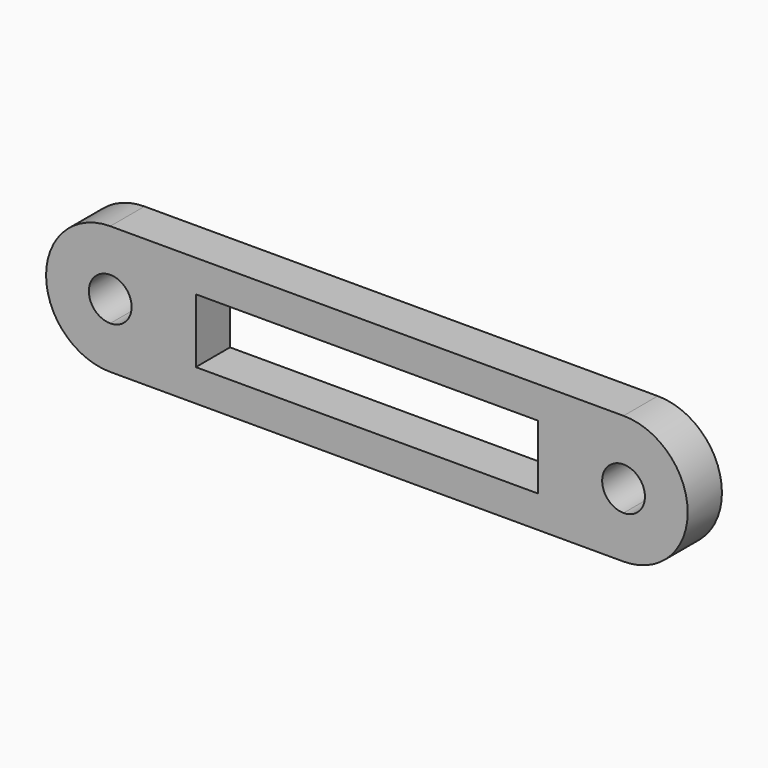
from build123d import *

# Parameters (mm, degrees)
F0_W     = 50.8
F0_H     = 9.525
F1_DEPTH = 6.35


with BuildPart() as f1:
    # F0 (on Front) → F1 (new body)
    with BuildSketch(Plane.XZ):
        with BuildLine():
            Line((-38.1, 3.175), (-38.1, 9.525))
            ThreePointArc((-38.1, 9.525), (-47.625, 0), (-38.1, -9.525))
            Line((-38.1, -9.525), (-38.1, -3.175))
            ThreePointArc((-38.1, -3.175), (-41.275, 0), (-38.1, 3.175))
        make_face()
        with BuildLine():
            Line((38.1, 3.175), (38.1, 9.525))
            Line((38.1, 9.525), (-38.1, 9.525))
            Line((-38.1, 9.525), (-38.1, 3.175))
            ThreePointArc((-38.1, 3.175), (-35.854936, 2.245064), (-34.925, 0))
            ThreePointArc((-34.925, 0), (-35.854936, -2.245064), (-38.1, -3.175))
            Line((-38.1, -3.175), (-38.1, -9.525))
            Line((-38.1, -9.525), (38.1, -9.525))
            Line((38.1, -9.525), (38.1, -3.175))
            ThreePointArc((38.1, -3.175), (34.925, 0), (38.1, 3.175))
        make_face()
        Rectangle(F0_W, F0_H, mode=Mode.SUBTRACT)
        with BuildLine():
            ThreePointArc((38.1, -9.525), (47.625, 0), (38.1, 9.525))
            Line((38.1, 9.525), (38.1, 3.175))
            ThreePointArc((38.1, 3.175), (40.345064, 2.245064), (41.275, 0))
            ThreePointArc((41.275, 0), (40.345064, -2.245064), (38.1, -3.175))
            Line((38.1, -3.175), (38.1, -9.525))
        make_face()
    extrude(amount=F1_DEPTH)


solid = f1.part
